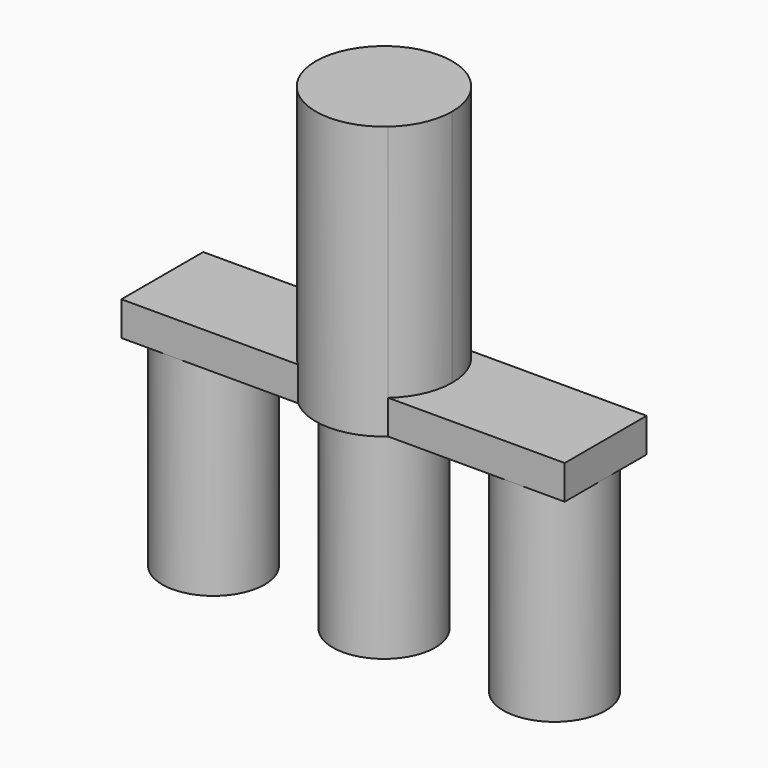
from build123d import *

# Parameters (mm, degrees)
F1_DEPTH = 30
F2_DEPTH = 40
F3_DEPTH = 5


with BuildPart() as f1:
    # F0 (on Top) → F1 (new body)
    with BuildSketch(Plane.XY):
        with BuildLine():
            ThreePointArc((-32.5, 0), (-30.3033008589, -5.3033008589), (-25, -7.5))
            ThreePointArc((-25, -7.5), (-19.6966991411, -5.3033008589), (-17.5, 0))
            ThreePointArc((-17.5, 0), (-19.6966991411, 5.3033008589), (-25, 7.5))
            ThreePointArc((-25, 7.5), (-30.3033008589, 5.3033008589), (-32.5, 0))
        make_face()
    extrude(amount=-F1_DEPTH)


with BuildPart() as f1b:
    # F0 (on Top) → F1, piece 2 (new body)
    with BuildSketch(Plane.XY):
        with BuildLine():
            ThreePointArc((-7.5, 0), (-5.3033008508, -5.303300867), (2.3e-08, -7.5))
            ThreePointArc((2.3e-08, -7.5), (5.303300867, -5.3033008508), (7.5, 0))
            ThreePointArc((7.5, 0), (5.3033008671, 5.3033008507), (2.31e-08, 7.5))
            ThreePointArc((2.31e-08, 7.5), (-5.3033008507, 5.3033008671), (-7.5, 0))
        make_face()
    extrude(amount=-F1_DEPTH)

    # F0 (on Top) → F2 (join)
    with BuildSketch(Plane.XY):
        with BuildLine():
            Line((7.5, 0), (10, 0))
            ThreePointArc((10, 0), (9.1143782777, 4.1143782777), (6.6143782777, 7.5))
            Line((6.6143782777, 7.5), (2.31e-08, 7.5))
            ThreePointArc((2.31e-08, 7.5), (5.3033008671, 5.3033008507), (7.5, 0))
        make_face()
        with BuildLine():
            Line((2.31e-08, 7.5), (6.6143782777, 7.5))
            ThreePointArc((6.6143782777, 7.5), (0, 10), (-6.6143782777, 7.5))
            Line((-6.6143782777, 7.5), (2.31e-08, 7.5))
        make_face()
        with BuildLine():
            Line((-10, 0), (-7.5, 0))
            ThreePointArc((-7.5, 0), (-5.3033008507, 5.3033008671), (2.31e-08, 7.5))
            Line((2.31e-08, 7.5), (-6.6143782777, 7.5))
            ThreePointArc((-6.6143782777, 7.5), (-9.1143782777, 4.1143782777), (-10, 0))
        make_face()
        with BuildLine():
            ThreePointArc((-7.5, 0), (-5.3033008508, -5.303300867), (2.3e-08, -7.5))
            ThreePointArc((2.3e-08, -7.5), (5.303300867, -5.3033008508), (7.5, 0))
            ThreePointArc((7.5, 0), (5.3033008671, 5.3033008507), (2.31e-08, 7.5))
            ThreePointArc((2.31e-08, 7.5), (-5.3033008507, 5.3033008671), (-7.5, 0))
        make_face()
        with BuildLine():
            Line((2.3e-08, -7.5), (6.6143782777, -7.5))
            ThreePointArc((6.6143782777, -7.5), (9.1143782777, -4.1143782777), (10, 0))
            Line((10, 0), (7.5, 0))
            ThreePointArc((7.5, 0), (5.303300867, -5.3033008508), (2.3e-08, -7.5))
        make_face()
        with BuildLine():
            ThreePointArc((-6.6143782777, -7.5), (0, -10), (6.6143782777, -7.5))
            Line((6.6143782777, -7.5), (2.3e-08, -7.5))
            Line((2.3e-08, -7.5), (-6.6143782777, -7.5))
        make_face()
        with BuildLine():
            Line((-6.6143782777, -7.5), (2.3e-08, -7.5))
            ThreePointArc((2.3e-08, -7.5), (-5.3033008508, -5.303300867), (-7.5, 0))
            Line((-7.5, 0), (-10, 0))
            ThreePointArc((-10, 0), (-9.1143782777, -4.1143782777), (-6.6143782777, -7.5))
        make_face()
    extrude(amount=F2_DEPTH)


with BuildPart() as f1c:
    # F0 (on Top) → F1, piece 3 (new body)
    with BuildSketch(Plane.XY):
        with BuildLine():
            ThreePointArc((17.5, 0), (19.6966991411, -5.3033008589), (25, -7.5))
            ThreePointArc((25, -7.5), (30.3033008589, -5.3033008589), (32.5, 0))
            ThreePointArc((32.5, 0), (30.3033008589, 5.3033008589), (25, 7.5))
            ThreePointArc((25, 7.5), (19.6966991411, 5.3033008589), (17.5, 0))
        make_face()
    extrude(amount=-F1_DEPTH)


with BuildPart() as f3:
    # F0 (on Top) → F3 (new body)
    with BuildSketch(Plane.XY):
        with BuildLine():
            Line((-32.5, 7.5), (-32.5, 0))
            ThreePointArc((-32.5, 0), (-30.3033008589, 5.3033008589), (-25, 7.5))
            Line((-25, 7.5), (-32.5, 7.5))
        make_face()
        with BuildLine():
            Line((-32.5, -7.5), (-25, -7.5))
            ThreePointArc((-25, -7.5), (-30.3033008589, -5.3033008589), (-32.5, 0))
            Line((-32.5, 0), (-32.5, -7.5))
        make_face()
        with BuildLine():
            Line((-25, -7.5), (-6.6143782777, -7.5))
            ThreePointArc((-6.6143782777, -7.5), (-9.1143782777, -4.1143782777), (-10, 0))
            Line((-10, 0), (-17.5, 0))
            ThreePointArc((-17.5, 0), (-19.6966991411, -5.3033008589), (-25, -7.5))
        make_face()
        with BuildLine():
            Line((-17.5, 0), (-10, 0))
            ThreePointArc((-10, 0), (-9.1143782777, 4.1143782777), (-6.6143782777, 7.5))
            Line((-6.6143782777, 7.5), (-25, 7.5))
            ThreePointArc((-25, 7.5), (-19.6966991411, 5.3033008589), (-17.5, 0))
        make_face()
        with BuildLine():
            ThreePointArc((-32.5, 0), (-30.3033008589, -5.3033008589), (-25, -7.5))
            ThreePointArc((-25, -7.5), (-19.6966991411, -5.3033008589), (-17.5, 0))
            ThreePointArc((-17.5, 0), (-19.6966991411, 5.3033008589), (-25, 7.5))
            ThreePointArc((-25, 7.5), (-30.3033008589, 5.3033008589), (-32.5, 0))
        make_face()
    extrude(amount=F3_DEPTH)


with BuildPart() as f3b:
    # F0 (on Top) → F3, piece 2 (new body)
    with BuildSketch(Plane.XY):
        with BuildLine():
            Line((10, 0), (17.5, 0))
            ThreePointArc((17.5, 0), (19.6966991411, 5.3033008589), (25, 7.5))
            Line((25, 7.5), (6.6143782777, 7.5))
            ThreePointArc((6.6143782777, 7.5), (9.1143782777, 4.1143782777), (10, 0))
        make_face()
        with BuildLine():
            Line((6.6143782777, -7.5), (25, -7.5))
            ThreePointArc((25, -7.5), (19.6966991411, -5.3033008589), (17.5, 0))
            Line((17.5, 0), (10, 0))
            ThreePointArc((10, 0), (9.1143782777, -4.1143782777), (6.6143782777, -7.5))
        make_face()
        with BuildLine():
            Line((25, -7.5), (32.5, -7.5))
            Line((32.5, -7.5), (32.5, 0))
            ThreePointArc((32.5, 0), (30.3033008589, -5.3033008589), (25, -7.5))
        make_face()
        with BuildLine():
            ThreePointArc((25, 7.5), (30.3033008589, 5.3033008589), (32.5, 0))
            Line((32.5, 0), (32.5, 7.5))
            Line((32.5, 7.5), (25, 7.5))
        make_face()
        with BuildLine():
            ThreePointArc((17.5, 0), (19.6966991411, -5.3033008589), (25, -7.5))
            ThreePointArc((25, -7.5), (30.3033008589, -5.3033008589), (32.5, 0))
            ThreePointArc((32.5, 0), (30.3033008589, 5.3033008589), (25, 7.5))
            ThreePointArc((25, 7.5), (19.6966991411, 5.3033008589), (17.5, 0))
        make_face()
    extrude(amount=F3_DEPTH)


solid = Compound([f1.part, f1b.part, f1c.part, f3.part, f3b.part])
